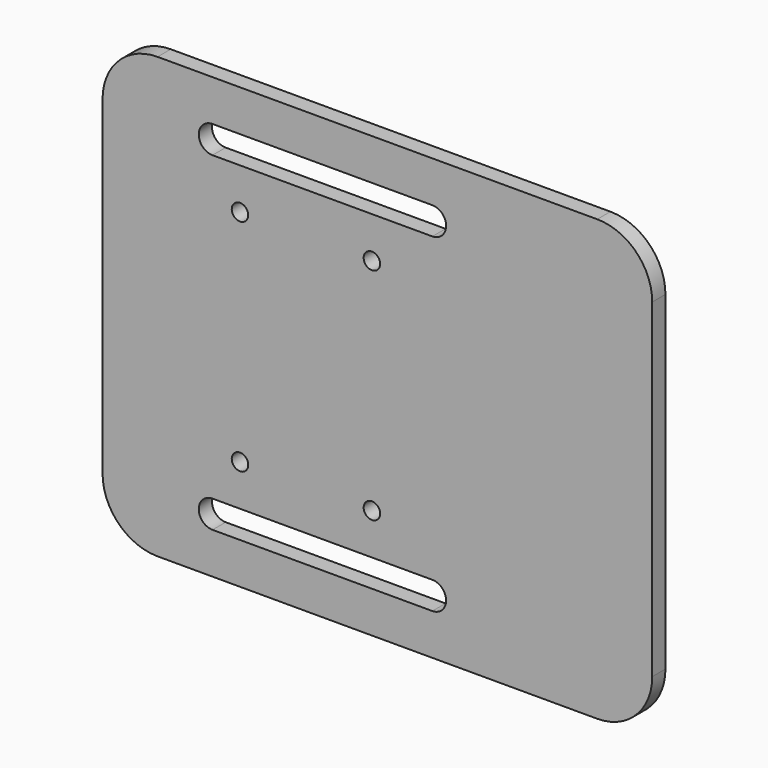
from build123d import *

# Parameters (mm, degrees)
F0_W     = 100
F0_H     = 40
F1_DEPTH = 3
F3_D     = 3
F7_DEPTH = 25
F8_R     = 10


with BuildPart() as f1:
    # F0 (on Front) → F1 (new body)
    with BuildSketch(Plane.XZ):
        with Locations((-50, -20)):
            Rectangle(F0_W, F0_H)
    extrude(amount=F1_DEPTH)

    # F3 (through all)
    with Locations(Plane(origin=(0, 0, 0), x_dir=(1, 0, 0), z_dir=(0, 1, 0))):
        with Locations((-51, 20), (-75, 20)):
            Hole(F3_D / 2)

    # F6 (on face) → F7 (cut)
    with BuildSketch(Plane.XZ.offset(3)):
        with BuildLine():
            ThreePointArc((-80, -27.5), (-82.5, -30), (-80, -32.5))
            Line((-80, -32.5), (-40, -32.5))
            ThreePointArc((-40, -32.5), (-37.5, -30), (-40, -27.5))
            Line((-40, -27.5), (-80, -27.5))
        make_face()
    extrude(amount=-F7_DEPTH, mode=Mode.SUBTRACT)

    # F8
    f8_edges = [f1.edges().sort_by_distance(p)[0] for p in [
        (-100, -1.5, -40),
        (0, -1.5, -40),
    ]]
    fillet(f8_edges, radius=F8_R)

    # F9: F1 across plane


with BuildPart() as f1_1:
    add(f1.part)
    add(f1.part.mirror(Plane.XY))


solid = f1_1.part
